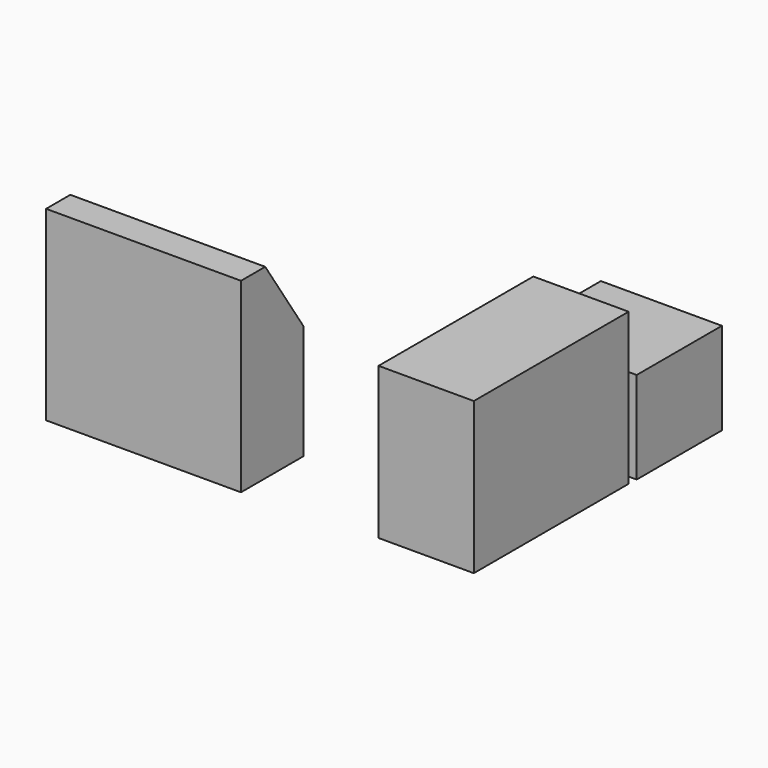
from build123d import *

# Parameters (mm, degrees)
F0_W     = 558.8
F0_H     = 1134.719407
F1_DEPTH = 889
F2_DEPTH = 673.1
F3_W     = 1143
F3_H     = 177.8
F4_DEPTH = 419.1
F6_DEPTH = 15
F8_DEPTH = 15
F0_W_2   = 710
F0_H_2   = 625
F9_DEPTH = 540


with BuildPart() as f1:
    # F0 (on Top) → F1 (new body)
    with BuildSketch(Plane.XY):
        with Locations((2210.294613, 614.155255)):
            Rectangle(F0_W, F0_H)
    extrude(amount=F1_DEPTH)


with BuildPart() as f2:
    # F0 (on Top) → F2 (new body)
    with BuildSketch(Plane.XY):
        Polygon((12.861629, 464.210095), (12.861629, 7.010095), (1117, 7.010095), (1155.861629, 7.010095), (1155.861629, 464.210095), align=None)
    extrude(amount=F2_DEPTH)

    # F3 (on face) → F4 (join)
    with BuildSketch(Plane.XY.offset(673.1)):
        with Locations((584.361629, 95.910095)):
            Rectangle(F3_W, F3_H)
    extrude(amount=F4_DEPTH)

    # F5 (on face) → F6 (join)
    with BuildSketch(Plane.YZ.offset(1155.861629)):
        Polygon((184.810095, 673.1), (184.810095, 1092.2), (7.010095, 1092.2), (7.010095, 0), (464.210095, 0), (464.210095, 673.1), align=None)
        Polygon((464.210095, 673.1), (184.810095, 1092.2), (184.810095, 673.1), align=None)
    extrude(amount=-F6_DEPTH)

    # F7 (on face) → F8 (join)
    with BuildSketch(Plane(origin=(12.861629, 0, 0), x_dir=(0, -1, 0), z_dir=(-1, 0, 0))):
        Polygon((-184.810095, 673.1), (-464.210095, 673.1), (-464.210095, 0), (-7.010095, 0), (-7.010095, 1092.2), (-184.810095, 1092.2), align=None)
        Polygon((-184.810095, 1092.2), (-464.210095, 673.1), (-184.810095, 673.1), align=None)
    extrude(amount=-F8_DEPTH)


with BuildPart() as f9:
    # F0 (on Top) → F9 (new body)
    with BuildSketch(Plane.XY):
        with Locations((2136.922698, 1550.328672)):
            Rectangle(F0_W_2, F0_H_2)
    extrude(amount=F9_DEPTH)


solid = Compound([f1.part, f2.part, f9.part])
